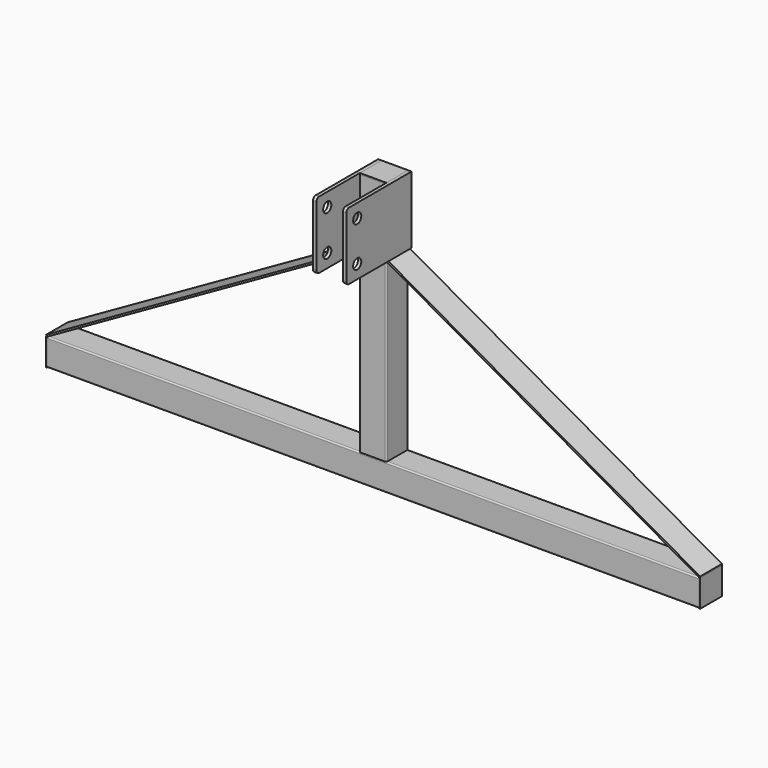
from build123d import *

# Parameters (mm, degrees)
F1_DEPTH = 609.6
F2_W     = 50.8
F2_H     = 45.72
F3_DEPTH = 457.2
F5_DEPTH = 50.8
F6_DEPTH = 50.8
F7_R     = 9.525
F7_W     = 45.72
F7_H     = 123.354195476
F8_DEPTH = 6.35


with BuildPart() as f1:
    # F0 (on Right) → F1 (new body, symmetric)
    with BuildSketch(Plane.YZ):
        with BuildLine():
            Line((-2.54, 50.8), (-48.26, 50.8))
            ThreePointArc((-48.26, 50.8), (-50.0560512242, 50.0560512242), (-50.8, 48.26))
            Line((-50.8, 48.26), (-50.8, 2.54))
            ThreePointArc((-50.8, 2.54), (-50.0560512242, 0.7439487758), (-48.26, 0))
            Line((-48.26, 0), (-2.54, 0))
            ThreePointArc((-2.54, 0), (-0.7439487758, 0.7439487758), (0, 2.54))
            Line((0, 2.54), (0, 48.26))
            ThreePointArc((0, 48.26), (-0.7439487758, 50.0560512242), (-2.54, 50.8))
        make_face()
        with BuildLine():
            ThreePointArc((-47.625, 45.085), (-46.8810512242, 46.8810512242), (-45.085, 47.625))
            Line((-45.085, 47.625), (-5.715, 47.625))
            ThreePointArc((-5.715, 47.625), (-3.9189487758, 46.8810512242), (-3.175, 45.085))
            Line((-3.175, 45.085), (-3.175, 5.715))
            ThreePointArc((-3.175, 5.715), (-3.9189487758, 3.9189487758), (-5.715, 3.175))
            Line((-5.715, 3.175), (-45.085, 3.175))
            ThreePointArc((-45.085, 3.175), (-46.8810512242, 3.9189487758), (-47.625, 5.715))
            Line((-47.625, 5.715), (-47.625, 45.085))
        make_face(mode=Mode.SUBTRACT)
    extrude(amount=F1_DEPTH, both=True)


with BuildPart() as f3:
    # F2 (on face) → F3 (new body)
    with BuildSketch(Plane.XY.offset(50.8)):
        with Locations((-0.5611219996, -25.4)):
            Rectangle(F2_W, F2_H)
        with BuildLine():
            Line((-22.7861219996, -45.085), (-22.7861219996, -5.715))
            ThreePointArc((-22.7861219996, -5.715), (-22.0421732238, -3.9189487758), (-20.2461219996, -3.175))
            Line((-20.2461219996, -3.175), (19.1238780004, -3.175))
            ThreePointArc((19.1238780004, -3.175), (20.9199292246, -3.9189487758), (21.6638780004, -5.715))
            Line((21.6638780004, -5.715), (21.6638780004, -45.085))
            ThreePointArc((21.6638780004, -45.085), (20.9199292246, -46.8810512242), (19.1238780004, -47.625))
            Line((19.1238780004, -47.625), (-20.2461219996, -47.625))
            ThreePointArc((-20.2461219996, -47.625), (-22.0421732238, -46.8810512242), (-22.7861219996, -45.085))
        make_face(mode=Mode.SUBTRACT)
        with BuildLine():
            Line((24.8388780004, -48.26), (-25.9611219996, -48.26))
            ThreePointArc((-25.9611219996, -48.26), (-25.2171732238, -50.0560512242), (-23.4211219996, -50.8))
            Line((-23.4211219996, -50.8), (22.2988780004, -50.8))
            ThreePointArc((22.2988780004, -50.8), (24.0949292246, -50.0560512242), (24.8388780004, -48.26))
        make_face()
        with BuildLine():
            Line((22.2988780004, 0), (-23.4211219996, 0))
            ThreePointArc((-23.4211219996, 0), (-25.2171732238, -0.7439487758), (-25.9611219996, -2.54))
            Line((-25.9611219996, -2.54), (24.8388780004, -2.54))
            ThreePointArc((24.8388780004, -2.54), (24.0949292246, -0.7439487758), (22.2988780004, 0))
        make_face()
    extrude(amount=F3_DEPTH)


with BuildPart() as f5:
    # F4 (on face) → F5 (new body, through all)
    with BuildSketch(Plane.XZ.offset(50.8)):
        Polygon((609.6, 2.54), (609.6, 0), (611.555613627, 0), (611.555613627, 50.8), (609.6, 50.8), (609.6, 48.26), (609.6, 45.085), (609.6, 5.715), align=None)
    extrude(amount=-F5_DEPTH)


with BuildPart() as f5b:
    # F4 (on face) → F5, piece 2 (new body, through all)
    with BuildSketch(Plane.XZ.offset(50.8)):
        Polygon((-611.5579447979, 0), (-609.6, 0), (-609.6, 2.54), (-609.6, 48.26), (-609.6, 50.8), (-611.5579447979, 50.8), align=None)
    extrude(amount=-F5_DEPTH)


with BuildPart() as f5c:
    # F4 (on face) → F5, piece 3 (new body, through all)
    with BuildSketch(Plane.XZ.offset(50.8)):
        Polygon((22.2988780004, 508), (24.8388780004, 508), (24.8388780004, 510.501239761), (-25.9611219996, 510.501239761), (-25.9611219996, 508), (-23.4211219996, 508), align=None)
    extrude(amount=-F5_DEPTH)


with BuildPart() as f6:
    # F4 (on face) → F6 (new body, through all)
    with BuildSketch(Plane.XZ.offset(50.8)):
        Polygon((-611.5579447979, 53.3401869806), (-609.6, 50.8), (-25.9611219996, 380.9995868004), (-25.9611219996, 384.647500815), (-27.5245402519, 383.7629811567), (-611.1600160106, 53.5653192089), align=None)
    extrude(amount=-F6_DEPTH)


with BuildPart() as f6b:
    # F4 (on face) → F6, piece 2 (new body, through all)
    with BuildSketch(Plane.XZ.offset(50.8)):
        Polygon((609.6, 50.8), (611.555613627, 50.8), (611.555613627, 53.3419329357), (611.1611437555, 53.5646799407), (26.4000217559, 383.7642667412), (24.8388780004, 384.645804524), (24.8388780004, 380.9995868004), align=None)
    extrude(amount=-F6_DEPTH)


with BuildPart() as f8:
    # F7 (on face) → F8 (new body)
    with BuildSketch(Plane.YZ.offset(24.8388780004)):
        with BuildLine():
            Line((0, 384.645804524), (0, 508))
            Line((0, 508), (0, 510.501239761))
            Line((0, 510.501239761), (-50.8, 510.501239761))
            Line((-50.8, 510.501239761), (-146.05, 510.501239761))
            ThreePointArc((-146.05, 510.501239761), (-150.5401280605, 508.6413678215), (-152.4, 504.151239761))
            Line((-152.4, 504.151239761), (-152.4, 390.995804524))
            ThreePointArc((-152.4, 390.995804524), (-150.5401280605, 386.5056764635), (-146.05, 384.645804524))
            Line((-146.05, 384.645804524), (-50.8, 384.645804524))
            Line((-50.8, 384.645804524), (-48.26, 384.645804524))
            Line((-48.26, 384.645804524), (-48.26, 508))
            Line((-48.26, 508), (-2.54, 508))
            Line((-2.54, 508), (-2.54, 384.645804524))
            Line((-2.54, 384.645804524), (0, 384.645804524))
        make_face()
        with Locations((-127, 410.045804524)):
            Circle(F7_R, mode=Mode.SUBTRACT)
        with Locations((-127, 485.101239761)):
            Circle(F7_R, mode=Mode.SUBTRACT)
        with Locations((-25.4, 446.322902262)):
            Rectangle(F7_W, F7_H)
    extrude(amount=F8_DEPTH)


with BuildPart() as f9_1:
    # F9: instance of F8
    add(f8.part.mirror(Plane.YZ))


solid = Compound([f1.part, f3.part, f5.part, f5b.part, f5c.part, f6.part, f6b.part, f8.part, f9_1.part])
